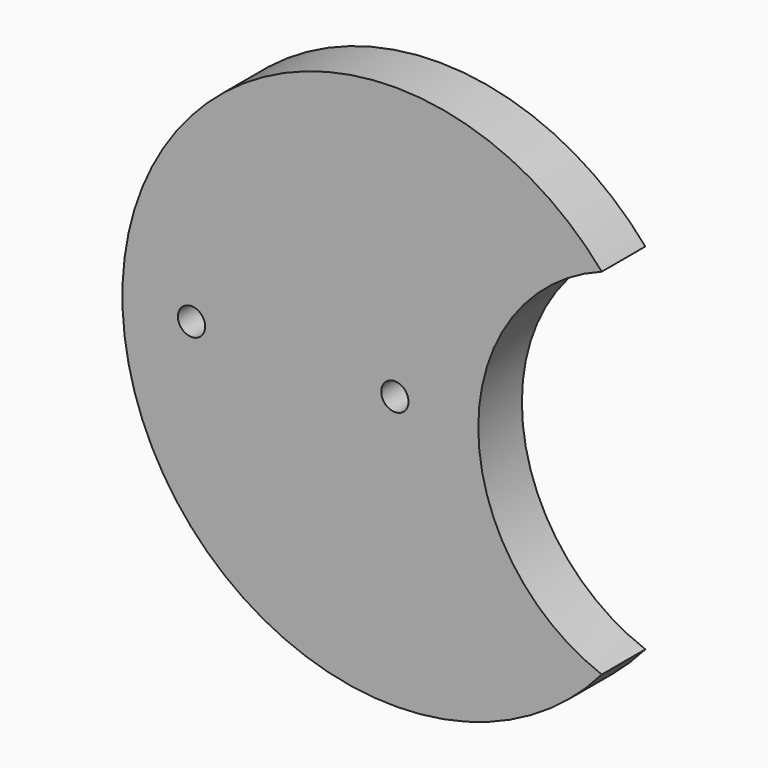
from build123d import *

# Parameters (mm, degrees)
F0_R     = 3.175
F1_DEPTH = 12.7


with BuildPart() as f1:
    # F0 (on Front) → F1 (new body)
    with BuildSketch(Plane.XZ):
        with BuildLine():
            ThreePointArc((48.216021, -41.321487), (19.442477, 0), (48.216021, 41.321487))
            ThreePointArc((48.216021, 41.321487), (-63.5, 0), (48.216021, -41.321487))
        make_face()
        with Locations((-47.387898, 0)):
            Circle(F0_R, mode=Mode.SUBTRACT)
        Circle(F0_R, mode=Mode.SUBTRACT)
    extrude(amount=F1_DEPTH)


solid = f1.part
